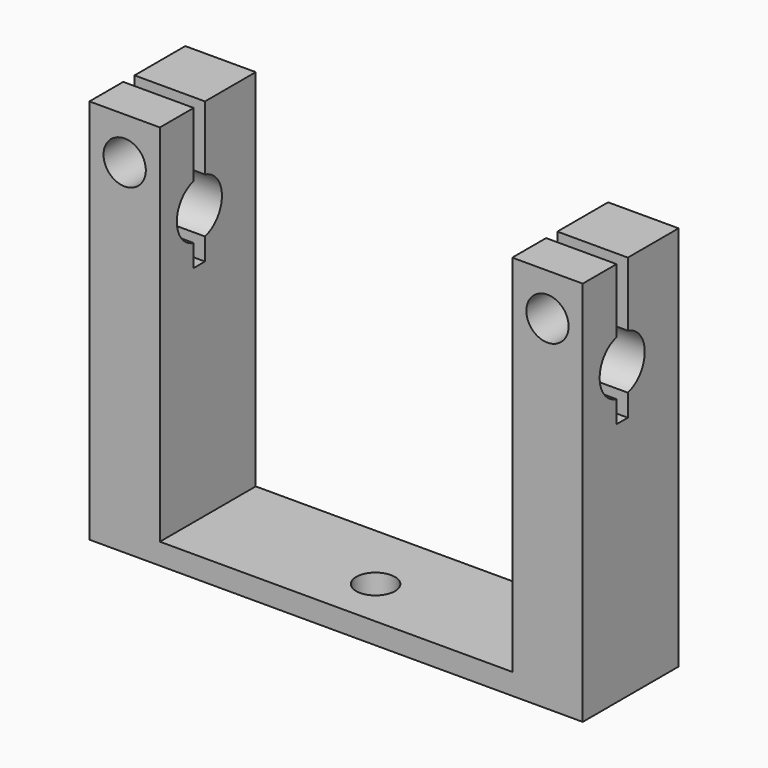
from build123d import *

# Parameters (mm, degrees)
PAD_DEPTH       = 7
PAD_DEPTH_BACK  = 10
SKETCH003_R     = 4
POCKET_DEPTH    = 35.001
SKETCH004_R     = 3
POCKET001_DEPTH = 17.001
POCKET003_DEPTH = 5
SKETCH007_W     = 2
SKETCH007_H     = 20
POCKET004_DEPTH = 35.001
SKETCH008_R     = 2.75
POCKET005_DEPTH = 54.751


with BuildPart() as part:
    # Sketch → Pad (new body, two sides)
    with BuildSketch(Plane.XZ) as pad_sk:
        Polygon((0, 0), (0, 3), (25, 3), (25, 54.75), (35, 54.75), (35, 0), align=None)
    extrude(amount=PAD_DEPTH)
    extrude(pad_sk.sketch, amount=-PAD_DEPTH_BACK)

    # Sketch003 → Pocket (cut, through all)
    with BuildSketch(Plane.YZ):
        with Locations((0, 41.75)):
            Circle(SKETCH003_R)
    extrude(amount=POCKET_DEPTH, mode=Mode.SUBTRACT)

    # Sketch004 (on Face5 of Pocket) → Pocket001 (cut, through all)
    with BuildSketch(Plane.XZ.offset(7)):
        with Locations((30, 48.75)):
            Circle(SKETCH004_R)
    extrude(amount=-POCKET001_DEPTH, mode=Mode.SUBTRACT)

    # Sketch006 → Pocket003 (cut)
    with BuildSketch(Plane(origin=(0, 10, 0), x_dir=(1, 0, 0), z_dir=(0, 1, 0))):
        Polygon((30, -44), (25.886379, -46.375), (25.886379, -51.125), (30, -53.5), (34.113621, -51.125), (34.113621, -46.375), align=None)
    extrude(amount=-POCKET003_DEPTH, mode=Mode.SUBTRACT)

    # Sketch007 → Pocket004 (cut, through all)
    with BuildSketch(Plane.YZ):
        with Locations((0, 44.75)):
            Rectangle(SKETCH007_W, SKETCH007_H)
    extrude(amount=POCKET004_DEPTH, mode=Mode.SUBTRACT)

    # Mirrored: part across YZ


with BuildPart() as part_1:
    add(part.part)
    add(part.part.mirror(Plane.YZ))

    # Sketch008 → Pocket005 (cut, through all)
    with BuildSketch(Plane.XY):
        Circle(SKETCH008_R)
    extrude(amount=POCKET005_DEPTH, mode=Mode.SUBTRACT)


solid = part_1.part
